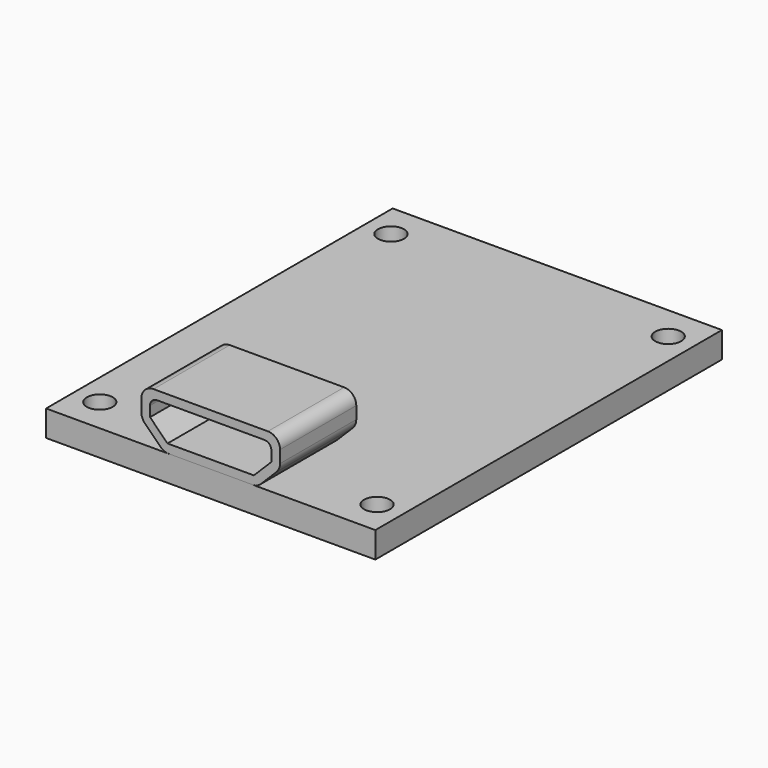
from build123d import *

# Parameters (mm, degrees)
F0_W     = 19
F0_H     = 25
F0_R     = 0.75
F1_DEPTH = 1.5
F3_DEPTH = 5.5
F4_DEPTH = 4


with BuildPart() as f1:
    # F0 (on Top) → F1 (new body)
    with BuildSketch(Plane.XY):
        Rectangle(F0_W, F0_H)
        with Locations((-8, -10.5)):
            Circle(F0_R, mode=Mode.SUBTRACT)
        with Locations((8, -10.5)):
            Circle(F0_R, mode=Mode.SUBTRACT)
        with Locations((-8, 10.5)):
            Circle(F0_R, mode=Mode.SUBTRACT)
        with Locations((8, 10.5)):
            Circle(F0_R, mode=Mode.SUBTRACT)
    extrude(amount=F1_DEPTH)


with BuildPart() as f3:
    # F2 (on face) → F3 (new body)
    with BuildSketch(Plane.XZ.offset(12.5)):
        with BuildLine():
            Line((-2.410051, 1.5), (0, 1.5))
            Line((0, 1.5), (2.410051, 1.5))
            ThreePointArc((2.410051, 1.5), (2.677929, 1.553284), (2.905025, 1.705025))
            Line((2.905025, 1.705025), (3.794975, 2.594975))
            ThreePointArc((3.794975, 2.594975), (3.946716, 2.822071), (4, 3.089949))
            Line((4, 3.089949), (4, 3.8))
            ThreePointArc((4, 3.8), (3.794975, 4.294975), (3.3, 4.5))
            Line((3.3, 4.5), (0, 4.5))
            Line((0, 4.5), (-3.3, 4.5))
            ThreePointArc((-3.3, 4.5), (-3.794975, 4.294975), (-4, 3.8))
            Line((-4, 3.8), (-4, 3.089949))
            ThreePointArc((-4, 3.089949), (-3.946716, 2.822071), (-3.794975, 2.594975))
            Line((-3.794975, 2.594975), (-2.905025, 1.705025))
            ThreePointArc((-2.905025, 1.705025), (-2.677929, 1.553284), (-2.410051, 1.5))
        make_face()
        with BuildLine():
            Line((-3.1, 4), (0, 4))
            Line((0, 4), (3.1, 4))
            ThreePointArc((3.1, 4), (3.382843, 3.882843), (3.5, 3.6))
            Line((3.5, 3.6), (3.5, 3.007107))
            Line((3.5, 3.007107), (2.492893, 2))
            Line((2.492893, 2), (0, 2))
            Line((0, 2), (-2.492893, 2))
            Line((-2.492893, 2), (-3.5, 3.007107))
            Line((-3.5, 3.007107), (-3.5, 3.6))
            ThreePointArc((-3.5, 3.6), (-3.382843, 3.882843), (-3.1, 4))
        make_face(mode=Mode.SUBTRACT)
        with BuildLine():
            Line((3.1, 4), (0, 4))
            Line((0, 4), (-3.1, 4))
            ThreePointArc((-3.1, 4), (-3.382843, 3.882843), (-3.5, 3.6))
            Line((-3.5, 3.6), (-3.5, 3.007107))
            Line((-3.5, 3.007107), (-2.492893, 2))
            Line((-2.492893, 2), (0, 2))
            Line((0, 2), (2.492893, 2))
            Line((2.492893, 2), (3.5, 3.007107))
            Line((3.5, 3.007107), (3.5, 3.6))
            ThreePointArc((3.5, 3.6), (3.382843, 3.882843), (3.1, 4))
        make_face()
    extrude(amount=-F3_DEPTH)

    # F2 (on face) → F4 (cut)
    with BuildSketch(Plane.XZ.offset(12.5)):
        with BuildLine():
            Line((3.1, 4), (0, 4))
            Line((0, 4), (-3.1, 4))
            ThreePointArc((-3.1, 4), (-3.382843, 3.882843), (-3.5, 3.6))
            Line((-3.5, 3.6), (-3.5, 3.007107))
            Line((-3.5, 3.007107), (-2.492893, 2))
            Line((-2.492893, 2), (0, 2))
            Line((0, 2), (2.492893, 2))
            Line((2.492893, 2), (3.5, 3.007107))
            Line((3.5, 3.007107), (3.5, 3.6))
            ThreePointArc((3.5, 3.6), (3.382843, 3.882843), (3.1, 4))
        make_face()
    extrude(amount=-F4_DEPTH, mode=Mode.SUBTRACT)


solid = Compound([f1.part, f3.part])
